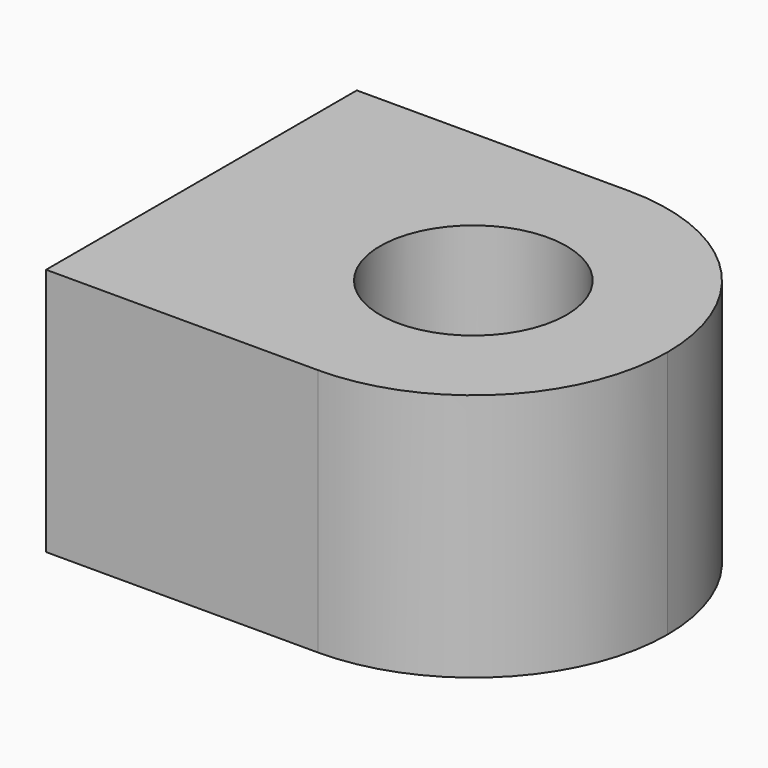
from build123d import *

# Parameters (mm, degrees)
F0_R     = 6
F1_DEPTH = 16


with BuildPart() as f1:
    # F0 (on Top) → F1 (new body)
    with BuildSketch(Plane.XY):
        with BuildLine():
            Line((0, 12.5), (-17.5, 12.5))
            Line((-17.5, 12.5), (-17.5, -12.5))
            Line((-17.5, -12.5), (0, -12.5))
            ThreePointArc((0, -12.5), (-12.5, 0), (0, 12.5))
        make_face()
        with BuildLine():
            ThreePointArc((12.5, 0), (8.838835, 8.838835), (0, 12.5))
            ThreePointArc((0, 12.5), (-12.5, 0), (0, -12.5))
            ThreePointArc((0, -12.5), (8.838835, -8.838835), (12.5, 0))
        make_face()
        Circle(F0_R, mode=Mode.SUBTRACT)
    extrude(amount=F1_DEPTH)


solid = f1.part
